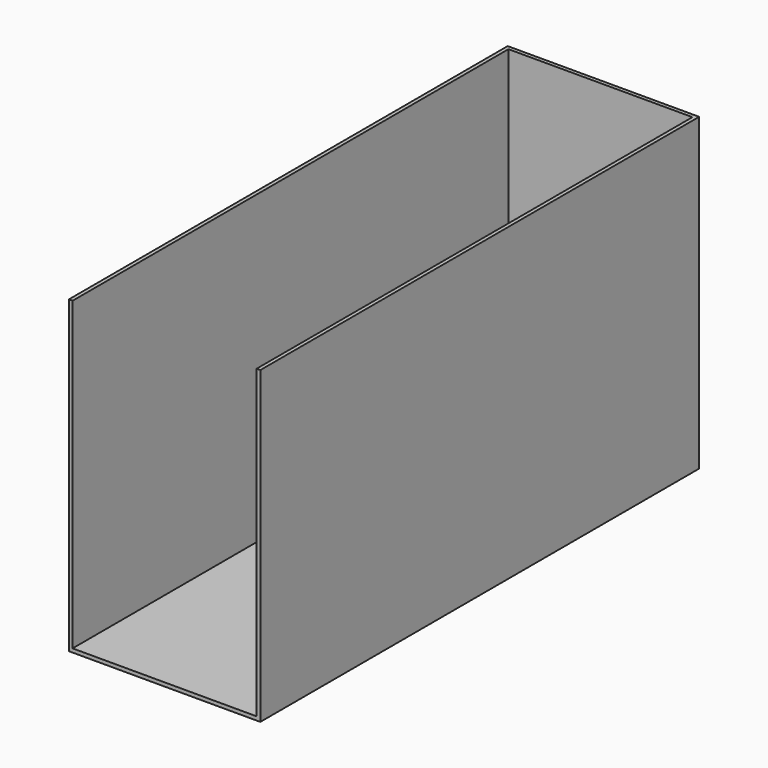
from build123d import *

# Parameters (mm, degrees)
F0_W     = 130.64453
F0_H     = 211.371556
F1_DEPTH = 374.337018
F2_T     = -2.54


with BuildPart() as f1:
    # F0 (on Front) → F1 (new body)
    with BuildSketch(Plane.XZ):
        with Locations((65.322265, 105.685778)):
            Rectangle(F0_W, F0_H)
    extrude(amount=F1_DEPTH)

    # F2
    f2_openings = [f1.faces().sort_by_distance(p)[0] for p in [
        (65.322265, -374.337018, 105.685778),
        (65.322265, -187.168509, 211.371556),
    ]]
    offset(amount=F2_T, openings=f2_openings)


solid = f1.part
